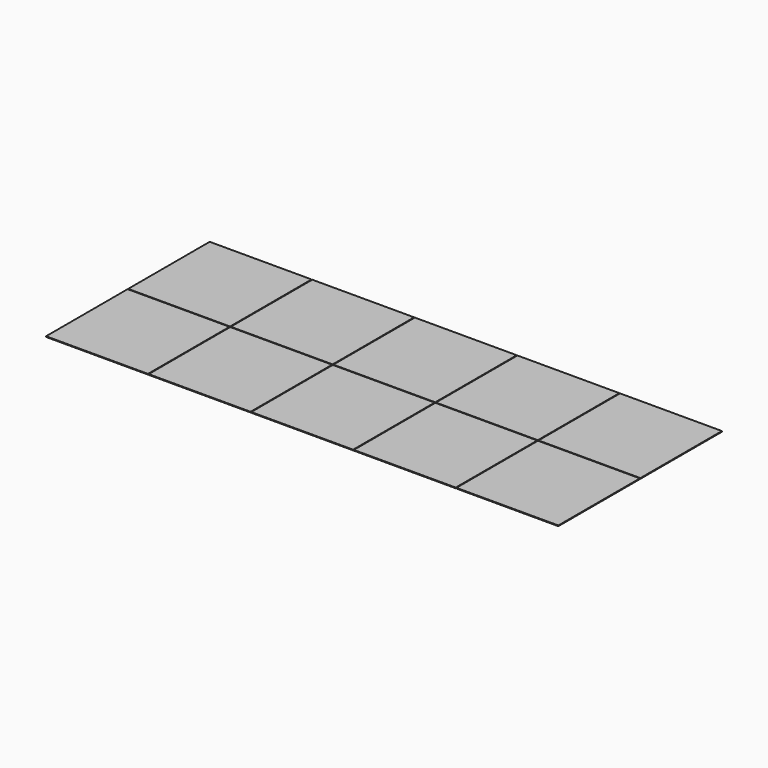
from build123d import *

# Parameters (mm, degrees)
F0_W     = 476.25
F0_H     = 476.25
F1_DEPTH = 3.175


with BuildPart() as f1:
    # F0 (on Top) → F1 (new body)
    with BuildSketch(Plane.XY):
        with Locations((238.125, -238.125)):
            Rectangle(F0_W, F0_H)
        with Locations((238.125, 241.3)):
            Rectangle(F0_W, F0_H)
        with Locations((717.55, -238.125)):
            Rectangle(F0_W, F0_H)
        with Locations((717.55, 241.3)):
            Rectangle(F0_W, F0_H)
        with Locations((1196.975, -238.125)):
            Rectangle(F0_W, F0_H)
        with Locations((1196.975, 241.3)):
            Rectangle(F0_W, F0_H)
        with Locations((1676.4, -238.125)):
            Rectangle(F0_W, F0_H)
        with Locations((1676.4, 241.3)):
            Rectangle(F0_W, F0_H)
        with Locations((2155.825, -238.125)):
            Rectangle(F0_W, F0_H)
        with Locations((2155.825, 241.3)):
            Rectangle(F0_W, F0_H)
    extrude(amount=F1_DEPTH)


solid = f1.part
